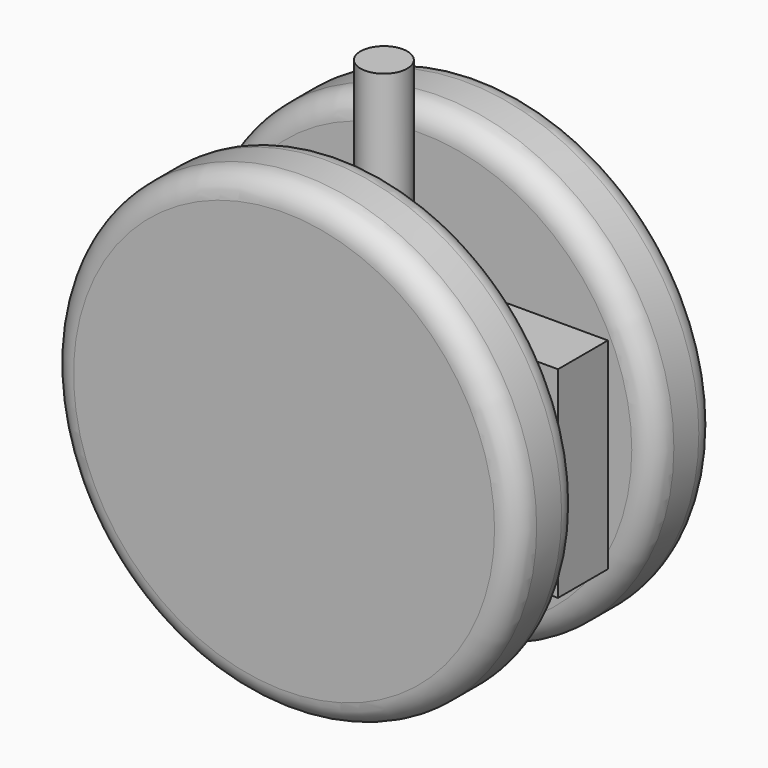
from build123d import *

# Parameters (mm, degrees)
F0_R     = 30
F1_DEPTH = 10
F2_R     = 3
F3_R     = 5
F4_DEPTH = 6
F6_W     = 32.5562786311
F6_H     = 25.8232261986
F6_R     = 5
F7_DEPTH = 4
F8_R     = 3
F9_DEPTH = 25


with BuildPart() as f1:
    # F0 (on Front) → F1 (new body)
    with BuildSketch(Plane.XZ):
        Circle(F0_R)
    extrude(amount=F1_DEPTH)

    # F2
    f2_edges = [f1.edges().sort_by_distance(p)[0] for p in [
        (-30, -10, 0),
        (-30, 0, 0),
    ]]
    fillet(f2_edges, radius=F2_R)

    # F3 (on Front) → F4 (join)
    with BuildSketch(Plane.XZ):
        Circle(F3_R)
    extrude(amount=-F4_DEPTH)


with BuildPart() as f5_1:
    # F5: instance of F1
    add(f1.part.mirror(Plane(origin=(0, 6, 0), x_dir=(1, 0, 0), z_dir=(0, 1, 0))))


with BuildPart() as f7:
    # F6 (on face) → F7 (new body, symmetric)
    with BuildSketch(Plane(origin=(0, 6, 0), x_dir=(-1, 0, 0), z_dir=(0, 1, 0))):
        with Locations((-9.2566898093, -0.1922994852)):
            Rectangle(F6_W, F6_H)
        Circle(F6_R, mode=Mode.SUBTRACT)
    extrude(amount=F7_DEPTH, both=True)

    # F8 (on face) → F9 (join)
    with BuildSketch(Plane.XY.offset(12.7193136141)):
        with Locations((0, 6)):
            Circle(F8_R)
    extrude(amount=F9_DEPTH)


with BuildPart() as f1_1:
    # F10: moved
    add(f1.part.moved(Location((0, -6, 0))))


with BuildPart() as f7_1:
    # F10: moved
    add(f7.part.moved(Location((0, -6, 0))))


with BuildPart() as f5_1_1:
    # F10: moved
    add(f5_1.part.moved(Location((0, -6, 0))))


solid = Compound([f1_1.part, f7_1.part, f5_1_1.part])
